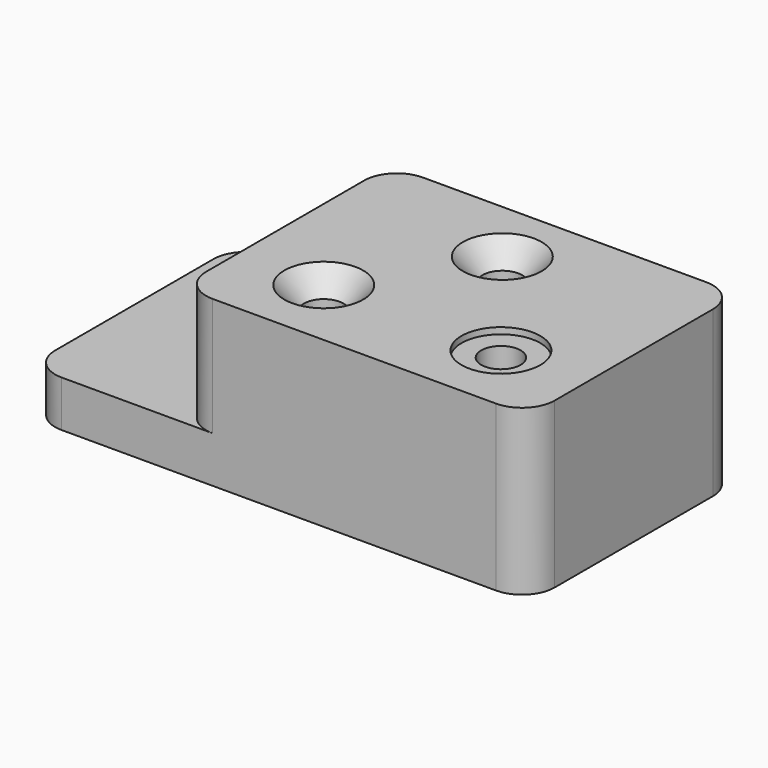
from build123d import *

# Parameters (mm, degrees)
F1_DEPTH       = 22.352
F2_DEPTH       = 79.502
F4_D           = 19.05
F4_DEPTH       = 79.502
F4_CBORE_D     = 38.1
F4_CBORE_DEPTH = 3.048
F6_D           = 19.05
F6_DEPTH       = 79.502
F6_CBORE_D     = 38.1
F6_CBORE_DEPTH = 3.048
F8_D           = 19.05
F8_DEPTH       = 79.502
F8_CSINK_D     = 38.1
F8_CSINK_ANGLE = 82


with BuildPart() as f1:
    # F0 (on Top) → F1 (new body)
    with BuildSketch(Plane.XY):
        with BuildLine():
            Line((15.748, 0), (88.646, 0))
            ThreePointArc((88.646, 0), (77.510482, 4.612482), (72.898, 15.748))
            Line((72.898, 15.748), (72.898, 111.252))
            ThreePointArc((72.898, 111.252), (77.510482, 122.387518), (88.646, 127))
            Line((88.646, 127), (15.748, 127))
            ThreePointArc((15.748, 127), (4.612482, 122.387518), (0, 111.252))
            Line((0, 111.252), (0, 15.748))
            ThreePointArc((0, 15.748), (4.612482, 4.612482), (15.748, 0))
        make_face()
    extrude(amount=F1_DEPTH)

    # F0 (on Top) → F2 (join)
    with BuildSketch(Plane.XY):
        with BuildLine():
            ThreePointArc((72.898, 15.748), (77.510482, 4.612482), (88.646, 0))
            Line((88.646, 0), (225.552, 0))
            ThreePointArc((225.552, 0), (236.687518, 4.612482), (241.3, 15.748))
            Line((241.3, 15.748), (241.3, 111.252))
            ThreePointArc((241.3, 111.252), (236.687518, 122.387518), (225.552, 127))
            Line((225.552, 127), (88.646, 127))
            ThreePointArc((88.646, 127), (77.510482, 122.387518), (72.898, 111.252))
            Line((72.898, 111.252), (72.898, 15.748))
        make_face()
    extrude(amount=F2_DEPTH)

    # F4
    with Locations(Plane.XY.offset(79.502)):
        with Locations((199.898, 35.052)):
            CounterBoreHole(F4_D / 2, F4_CBORE_D / 2, F4_CBORE_DEPTH, depth=F4_DEPTH)

    # F6
    with Locations(Plane.XY.offset(22.352)):
        with Locations((35.052, 95.25)):
            CounterBoreHole(F6_D / 2, F6_CBORE_D / 2, F6_CBORE_DEPTH, depth=F6_DEPTH)

    # F8
    with Locations(Plane.XY.offset(79.502)):
        with Locations((152.4, 95.25), (114.3, 35.052)):
            CounterSinkHole(F8_D / 2, F8_CSINK_D / 2, depth=F8_DEPTH, counter_sink_angle=F8_CSINK_ANGLE)


solid = f1.part
